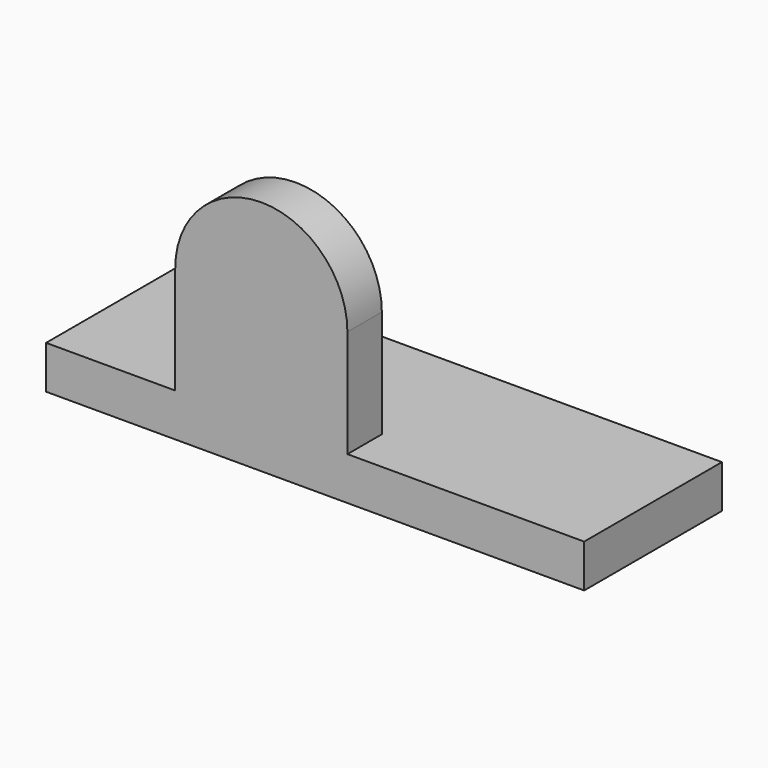
from build123d import *

# Parameters (mm, degrees)
F0_W     = 125
F0_H     = 40
F1_DEPTH = 10
F3_DEPTH = 10


with BuildPart() as f1:
    # F0 (on Top) → F1 (new body)
    with BuildSketch(Plane.XY):
        with Locations((62.5, 20)):
            Rectangle(F0_W, F0_H)
    extrude(amount=F1_DEPTH)

    # F2 (on face) → F3 (join)
    with BuildSketch(Plane.XZ):
        with BuildLine():
            Line((30, 35), (30, 0))
            Line((30, 0), (70, 0))
            Line((70, 0), (70, 35))
            ThreePointArc((70, 35), (50, 55), (30, 35))
        make_face()
    extrude(amount=-F3_DEPTH)


solid = f1.part
